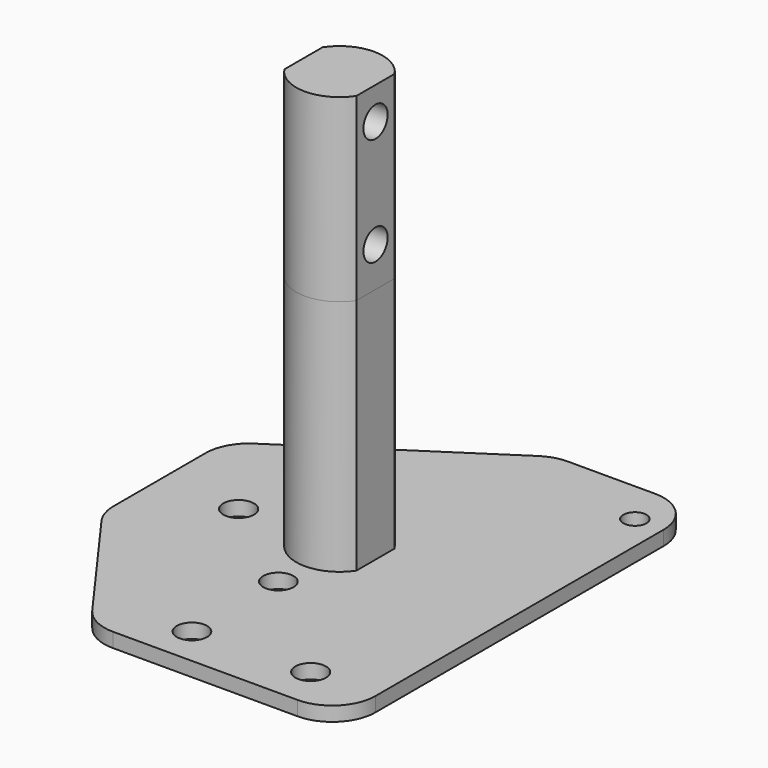
from build123d import *

# Parameters (mm, degrees)
SKETCH_W        = 50
SKETCH_H        = 62
PAD_DEPTH       = 2
SKETCH001_R     = 2.125
SKETCH001_R_2   = 1.6
POCKET_DEPTH    = 2.001
SKETCH005_R     = 2.1
POCKET002_DEPTH = 2.001
POCKET003_DEPTH = 2.001
FILLET_R        = 6
SKETCH002_R     = 6
PAD001_DEPTH    = 35
PAD002_DEPTH    = 25
SKETCH004_R     = 2.1
POCKET001_DEPTH = 11.001
SKETCH007_W     = 5.144716
SKETCH007_H     = 23.774506
SKETCH007_W_2   = 6.816065
SKETCH007_H_2   = 22.941175
POCKET004_DEPTH = 35.001


with BuildPart() as obj1:
    # Sketch (on XY_Plane001 of Origin002) → Pad (new body)
    with BuildSketch(Plane.XY):
        Rectangle(SKETCH_W, SKETCH_H)
    extrude(amount=PAD_DEPTH)

    # Sketch001 (on Face6 of Pad) → Pocket (cut, through all)
    with BuildSketch(Plane.XY.offset(2)):
        with Locations((16, -25)):
            Circle(SKETCH001_R)
        with Locations((-14, 0)):
            Circle(SKETCH001_R)
        with Locations((21, 25)):
            Circle(SKETCH001_R_2)
    extrude(amount=-POCKET_DEPTH, mode=Mode.SUBTRACT)

    # Sketch005 (on Face5 of Pocket) → Pocket002 (cut, through all)
    with BuildSketch(Plane.XY.offset(2)):
        with Locations((0, -10.6)):
            Circle(SKETCH005_R)
        with Locations((0, -25.6)):
            Circle(SKETCH005_R)
    extrude(amount=-POCKET002_DEPTH, mode=Mode.SUBTRACT)

    # Sketch006 (on Face5 of Pocket002) → Pocket003 (cut, through all)
    with BuildSketch(Plane.XY.offset(2)):
        Polygon((9.967307, 34.193909), (-27.579384, 9.567701), (-27.579384, -6.334426), (-5.49309, -36.813499), (-39.616409, -35.377892), (-36.745193, 45.789211), align=None)
    extrude(amount=-POCKET003_DEPTH, mode=Mode.SUBTRACT)

    # Fillet
    fillet_edges = [obj1.edges().sort_by_distance(p)[0] for p in [
        (-9.705772, -31, 1),
        (-25, -9.893974, 1),
        (-25, 11.259473, 1),
        (5.097669, 31, 1),
        (25, 31, 1),
        (25, -31, 1),
    ]]
    fillet(fillet_edges, radius=FILLET_R)


with BuildPart() as basemountswivelbody:
    # Sketch002 (on XY_Plane003 of Origin006) → Pad001 (new body)
    with BuildSketch(Plane.XY):
        Circle(SKETCH002_R)
    extrude(amount=PAD001_DEPTH)

    # Sketch003 (on Face3 of Pad001) → Pad002 (join)
    with BuildSketch(Plane.XY.offset(35)):
        with BuildLine():
            ThreePointArc((-5, -3.316625), (0, -6), (5, -3.316625))
            Line((5, 3.313375), (5, -3.316625))
            ThreePointArc((5, 3.313375), (0, 5.998204), (-5, 3.313375))
            Line((-5, 3.313375), (-5, -3.316625))
        make_face()
    extrude(amount=PAD002_DEPTH)

    # Sketch004 (on Face2 of Pad002) → Pocket001 (cut, through all)
    with BuildSketch(Plane.YZ.offset(5)):
        with Locations((0, 55.5)):
            Circle(SKETCH004_R)
        with Locations((0, 40.5)):
            Circle(SKETCH004_R)
    extrude(amount=-POCKET001_DEPTH, mode=Mode.SUBTRACT)

    # Sketch007 (on Face1 of Pocket001) → Pocket004 (cut, through all)
    with BuildSketch(Plane.XY.offset(35)):
        with Locations((-7.572358, -1.246686)):
            Rectangle(SKETCH007_W, SKETCH007_H)
        with Locations((8.408033, 0.836648)):
            Rectangle(SKETCH007_W_2, SKETCH007_H_2)
    extrude(amount=-POCKET004_DEPTH, mode=Mode.SUBTRACT)


solid = Compound([obj1.part, basemountswivelbody.part])
